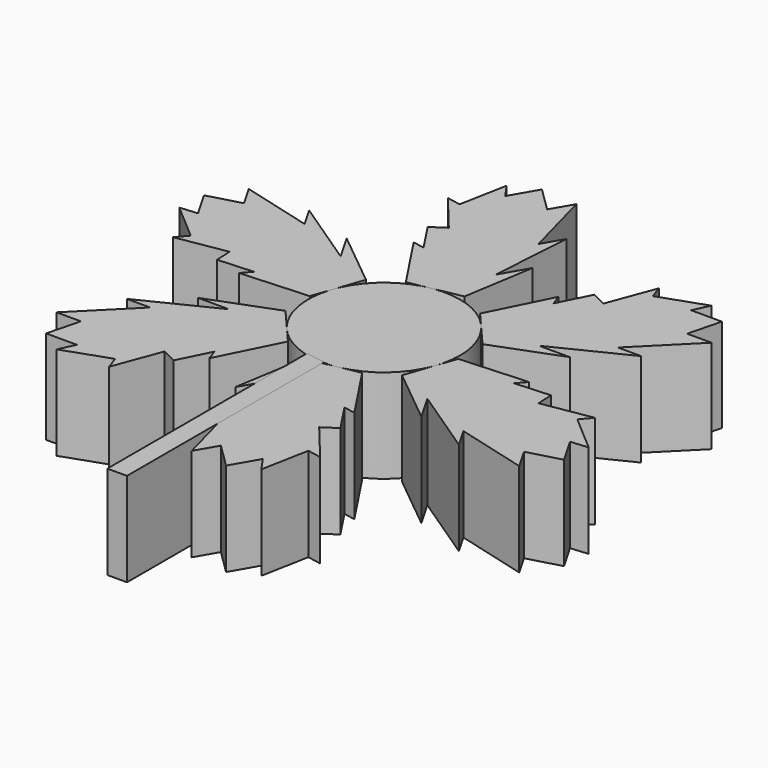
from build123d import *

# Parameters (mm, degrees)
F2_DEPTH = 25.4
F0_R     = 20.5906873936
F4_DEPTH = 25.4


with BuildPart() as f2:
    # F1 (on Top) → F2 (new body)
    with BuildSketch(Plane.XY):
        Polygon((-17.83298781, 44.2471951997), (-21.5923608654, 41.765058951), (-16.3444144081, 33.8166683183), (-19.4846056894, 34.4139499588), (-9.3918710847, 19.1277808177), (4.4140186546, 21.765322685), (7.4979696061, 40.9215589741), (3.3247867238, 33.6933941926), (4.7796854469, 55.7841447948), (1.6138219926, 50.3007084421), (-3.5480446712, 69.5650520044), (-6.8578086392, 63.8323726508), (-13.4332479786, 70.2873393486), (-17.6064317922, 63.059172954), (-20.3378177437, 66.9624460909), (-22.7869359653, 54.0862765175), (-26.5243781157, 54.7971585558), align=None)
    extrude(amount=F2_DEPTH)


with BuildPart() as f2b:
    # F1 (on Top) → F2, piece 2 (new body)
    with BuildSketch(Plane.XY):
        Polygon((-47.2356889941, 6.679777131), (-46.9657824748, 2.1829964384), (-37.4583010391, 2.7536560717), (-39.5456577536, 0.3328114697), (-21.2610796485, 1.4302914604), (-16.6423130395, 14.7053136302), (-31.690124831, 26.9542116428), (-27.5169419486, 19.7260468612), (-45.9206437972, 32.0314014165), (-42.7547803429, 26.5479650638), (-62.019124587, 31.7098291831), (-58.709360619, 25.9771498295), (-67.5872454296, 23.5101356696), (-63.4140616159, 16.2819692749), (-68.1600882861, 15.8681562218), (-58.2335574429, 7.3090728384), (-60.7179204224, 4.4277940102), align=None)
    extrude(amount=F2_DEPTH)


with BuildPart() as f2c:
    # F1 (on Top) → F2, piece 3 (new body)
    with BuildSketch(Plane.XY):
        Polygon((11.8692085638, 17.6974893572), (21.0563316941, 7.0600090548), (39.1880944371, 13.9673473313), (30.8417286724, 13.9673473313), (50.7003292441, 23.7527433783), (44.3686023355, 23.7527433783), (58.4710799158, 37.8552228212), (51.8515519798, 37.8552228212), (54.1539974511, 46.7772036791), (45.8076298237, 46.7772036791), (47.8222705424, 51.0942898691), (35.4466214776, 46.7772036791), (34.1935423067, 50.3693645457), (29.4027011842, 37.5674180686), (25.3734216094, 39.5820625126), (21.113886631, 31.0630122466), (20.0610520642, 34.0811384892), align=None)
    extrude(amount=F2_DEPTH)


with BuildPart() as f2d:
    # F1 (on Top) → F2, piece 4 (new body)
    with BuildSketch(Plane.XY):
        Polygon((47.2356889941, -6.679777131), (46.9657824748, -2.1829964384), (37.4583010391, -2.7536560717), (39.5456577536, -0.3328114697), (21.2610796485, -1.4302914604), (16.6423130395, -14.7053136302), (31.690124831, -26.9542116428), (27.5169419486, -19.7260468612), (45.9206437972, -32.0314014165), (42.7547803429, -26.5479650638), (62.019124587, -31.7098291831), (58.709360619, -25.9771498295), (67.5872454296, -23.5101356696), (63.4140616159, -16.2819692749), (68.1600882861, -15.8681562218), (58.2335574429, -7.3090728384), (60.7179204224, -4.4277940102), align=None)
    extrude(amount=F2_DEPTH)


with BuildPart() as f2e:
    # F1 (on Top) → F2, piece 5 (new body)
    with BuildSketch(Plane.XY):
        Polygon((17.83298781, -44.2471951997), (21.5923608654, -41.765058951), (16.3444144081, -33.8166683183), (19.4846056894, -34.4139499588), (9.3918710847, -19.1277808177), (-4.4140186546, -21.765322685), (-7.4979696061, -40.9215589741), (-3.3247867238, -33.6933941926), (-4.7796854469, -55.7841447948), (-1.6138219926, -50.3007084421), (3.5480446712, -69.5650520044), (6.8578086392, -63.8323726508), (13.4332479786, -70.2873393486), (17.6064317922, -63.059172954), (20.3378177437, -66.9624460909), (22.7869359653, -54.0862765175), (26.5243781157, -54.7971585558), align=None)
    extrude(amount=F2_DEPTH)


with BuildPart() as f2f:
    # F1 (on Top) → F2, piece 6 (new body)
    with BuildSketch(Plane.XY):
        Polygon((-29.4027011842, -37.5674180686), (-25.3734216094, -39.5820625126), (-21.113886631, -31.0630122466), (-20.0610520642, -34.0811384892), (-11.8692085638, -17.6974893572), (-21.0563316941, -7.0600090548), (-39.1880944371, -13.9673473313), (-30.8417286724, -13.9673473313), (-50.7003292441, -23.7527433783), (-44.3686023355, -23.7527433783), (-58.4710799158, -37.8552228212), (-51.8515519798, -37.8552228212), (-54.1539974511, -46.7772036791), (-45.8076298237, -46.7772036791), (-47.8222705424, -51.0942898691), (-35.4466214776, -46.7772036791), (-34.1935423067, -50.3693645457), align=None)
    extrude(amount=F2_DEPTH)


with BuildPart() as f2g:
    # F0 (on Top) → F2, piece 7 (new body)
    with BuildSketch(Plane.XY):
        Circle(F0_R)
    extrude(amount=F2_DEPTH)


with BuildPart() as f4:
    # F3 (on Top) → F4 (new body)
    with BuildSketch(Plane.XY):
        Polygon((0, -20.2903039753), (-5.3244065493, -19.4268878549), (-5.3244065493, -87.0612487197), (0, -87.0612487197), align=None)
    extrude(amount=F4_DEPTH)


solid = Compound([f2.part, f2b.part, f2c.part, f2d.part, f2e.part, f2f.part, f2g.part, f4.part])
